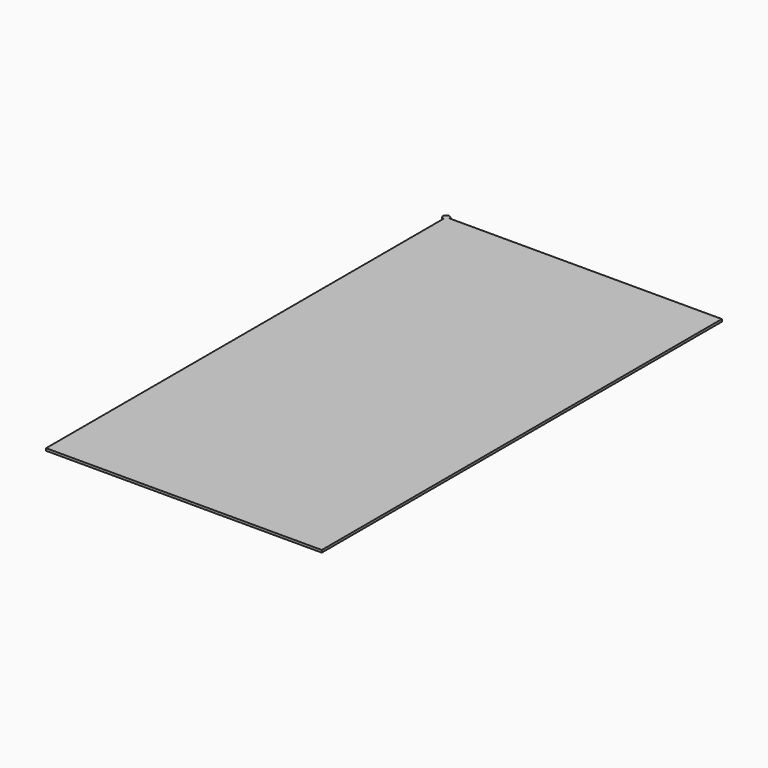
from build123d import *

# Parameters (mm, degrees)
CYLINDER_R     = 0.4
CYLINDER_DEPTH = 0.3
BOX003_W       = 35
BOX003_H       = 63.5
BOX003_DEPTH   = 0.3


with BuildPart() as cylinder:
    # Cylinder → Cylinder (new body)
    with BuildSketch(Plane(origin=(0, 1, 11.4), x_dir=(1, 0, 0), z_dir=(0, 0, 1))):
        Circle(CYLINDER_R)
    extrude(amount=CYLINDER_DEPTH)


with BuildPart() as displayframe:
    # Box003 → Box003 (new body)
    with BuildSketch(Plane(origin=(0, -62.5, 11.4), x_dir=(1, 0, 0), z_dir=(0, 0, 1))):
        with Locations((17.5, 31.75)):
            Rectangle(BOX003_W, BOX003_H)
    extrude(amount=BOX003_DEPTH)

    # Fusion: union Cylinder
    add(cylinder.part)


with BuildPart() as displayframe_1:
    # Fusion placement: moved
    add(displayframe.part.moved(Location((0, 0, 2))))


solid = displayframe_1.part
